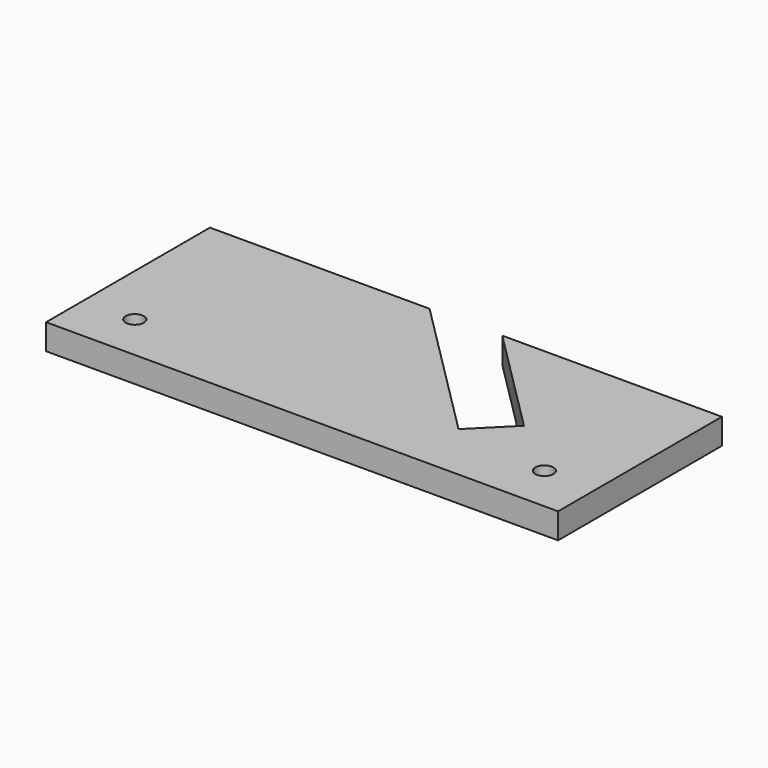
from build123d import *

# Parameters (mm, degrees)
F1_DEPTH = 6.35
F3_D     = 4.4958


with BuildPart() as f1:
    # F0 (on Top) → F1 (new body)
    with BuildSketch(Plane.XY):
        Polygon((-9.0161771456, 25.4), (-63.5, 25.4), (-63.5, -25.4), (63.5, -25.4), (63.5, 25.4), (9.0161771456, 25.4), (35.9210244843, -1.5048473387), (26.9048473387, -10.5210244843), align=None)
    extrude(amount=F1_DEPTH)

    # F3 (through all)
    with Locations(Plane.XY.offset(6.35)):
        with Locations((-50.8, -13.7668), (50.8, -13.7668)):
            Hole(F3_D / 2)


solid = f1.part
